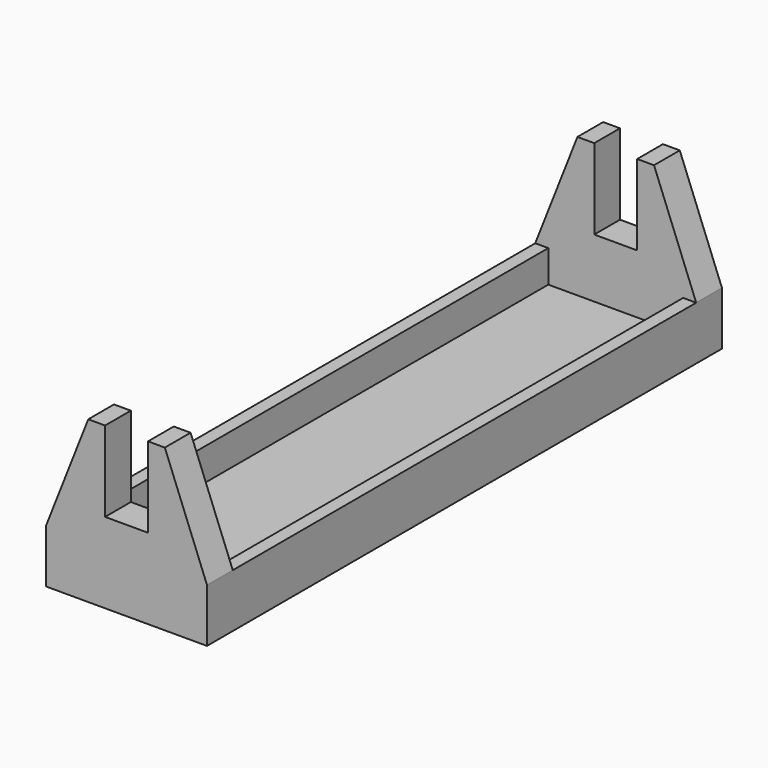
from build123d import *

# Parameters (mm, degrees)
F0_W     = 30
F0_H     = 10
F1_DEPTH = 60
F2_W     = 108
F2_H     = 39.921402
F3_DEPTH = 150
F4_W     = 25.141022
F4_H     = 108
F5_DEPTH = 6


with BuildPart() as f1:
    # F0 (on Front) → F1 (new body, symmetric)
    with BuildSketch(Plane.XZ):
        Polygon((-15, 5), (15, 5), (7.140478, 25), (4, 25), (4, 10), (-4, 10), (-4, 25), (-7.140478, 25), align=None)
        Rectangle(F0_W, F0_H)
    extrude(amount=F1_DEPTH, both=True)

    # F2 (on Right) → F3 (cut, symmetric)
    with BuildSketch(Plane.YZ):
        with Locations((0, 24.950191)):
            Rectangle(F2_W, F2_H)
    extrude(amount=F3_DEPTH, both=True, mode=Mode.SUBTRACT)

    # F4 (on face) → F5 (cut)
    with BuildSketch(Plane.XY.offset(4.98949)):
        Rectangle(F4_W, F4_H)
    extrude(amount=-F5_DEPTH, mode=Mode.SUBTRACT)


solid = f1.part
